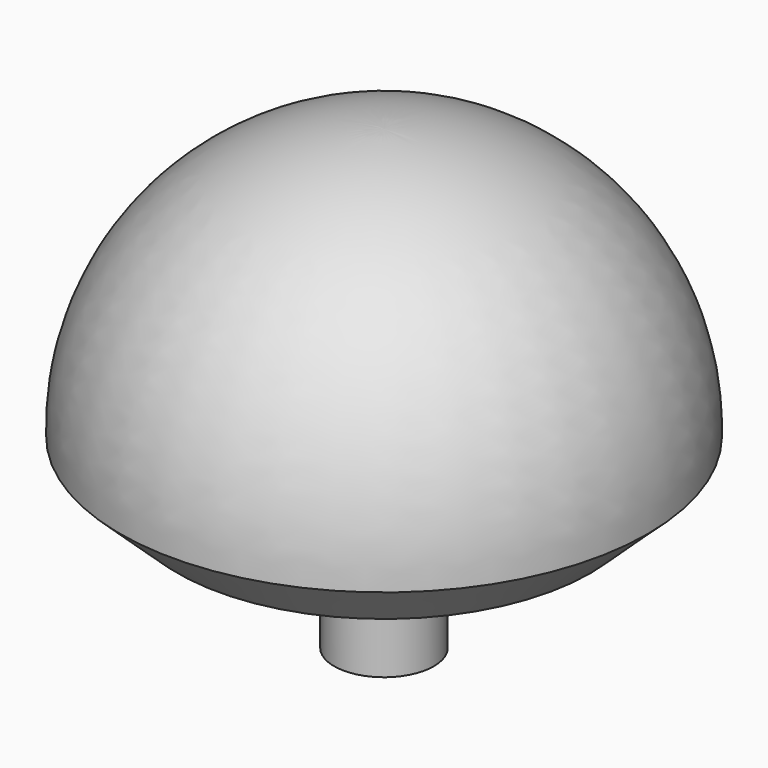
from build123d import *

# Parameters (mm, degrees)
F2_R     = 19.05
F3_DEPTH = 50.8


with BuildPart() as f1:
    # F0 (on Front) → F1 (revolve)
    with BuildSketch(Plane.XZ):
        with BuildLine():
            ThreePointArc((100.822107, 0), (72.278249, 72.999703), (0, 103.324003))
            Line((0, 103.324003), (0, 0))
            Line((0, 0), (100.822107, 0))
        make_face()
        Polygon((100.822107, 0), (0, 0), (0, -20.32), (78.959778, -20.32), align=None)
    revolve(axis=Axis((0, 0, 41.502001), (0, 0, -1)))

    # F2 (on face) → F3 (join)
    with BuildSketch(Plane(origin=(0, 0, -20.32), x_dir=(1, 0, 0), z_dir=(0, 0, -1))):
        Circle(F2_R)
    extrude(amount=F3_DEPTH)


solid = f1.part
